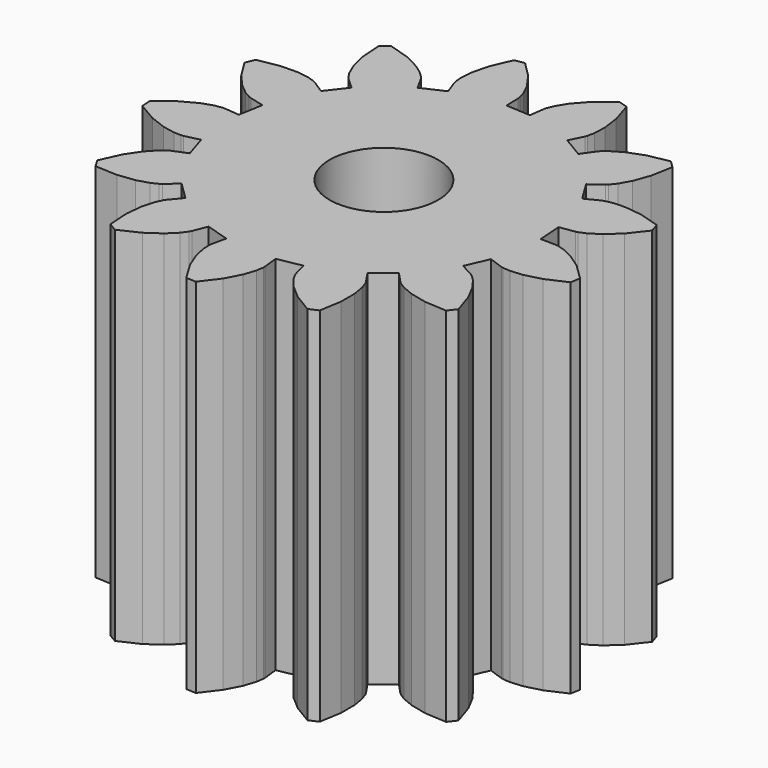
from build123d import *

# Parameters (mm, degrees)
CYLINDER006_R                 = 1.5
CYLINDER006_DEPTH             = 12
LINEAREXTRUDE004_DEPTH        = 10
DIFFERENCE005_PLACEMENT_ANGLE = -10


with BuildPart() as cylinder006:
    # cylinder006 → cylinder006 (new body)
    with BuildSketch(Plane.XY.offset(-1)):
        Circle(CYLINDER006_R)
    extrude(amount=CYLINDER006_DEPTH)


with BuildPart() as difference005:
    # union006 → LinearExtrude004 (new body)
    with BuildSketch(Plane(origin=(0, 0, 0), x_dir=(0, 1, 0), z_dir=(0, 0, 1))):
        Polygon((0.711931, -4.306123), (1.370771, -4.143733), (1.502069, -4.540636), (1.530367, -4.602072), (1.641751, -4.771632), (1.871155, -5.020002), (2.245545, -5.309618), (2.782207, -5.596589), (3.025427, -5.468937), (3.094113, -4.864255), (3.068442, -4.391617), (2.994354, -4.061731), (2.918082, -3.873743), (2.883597, -3.815555), (2.631538, -3.482032), (3.139447, -3.032064), (3.440155, -3.322487), (3.493763, -3.363735), (3.671187, -3.46211), (3.989737, -3.575421), (4.455834, -3.657875), (5.064387, -3.662577), (5.220426, -3.436516), (5.000234, -2.869177), (4.757857, -2.462607), (4.53895, -2.204938), (4.384052, -2.073928), (4.326475, -2.038431), (3.948292, -1.860249), (4.188912, -1.225786), (4.590143, -1.343197), (4.656779, -1.354807), (4.859597, -1.359461), (5.194318, -1.311756), (5.645345, -1.168159), (6.186377, -0.889514), (6.219486, -0.616832), (5.76086, -0.216806), (5.357304, 0.030555), (5.043726, 0.156979), (4.845688, 0.200998), (4.77821, 0.205671), (4.36054, 0.187693), (4.278749, 0.861305), (4.688584, 0.943805), (4.752983, 0.964491), (4.934732, 1.054624), (5.208943, 1.252418), (5.541575, 1.58917), (5.891142, 2.087328), (5.793738, 2.344162), (5.201743, 2.485233), (4.729457, 2.516719), (4.393046, 2.482935), (4.197235, 2.429879), (4.135314, 2.402658), (3.773841, 2.192639), (3.388376, 2.751081), (3.712928, 3.01459), (3.760337, 3.062835), (3.879381, 3.227107), (4.030263, 3.529677), (4.168298, 3.982437), (4.246318, 4.585986), (4.040715, 4.768136), (3.45097, 4.617935), (3.018149, 4.426332), (2.735972, 4.240079), (2.587247, 4.102103), (2.545069, 4.049224), (2.322601, 3.695276), (1.721767, 4.010618), (1.886685, 4.394771), (1.906243, 4.459522), (1.93531, 4.6603), (1.928298, 4.99833), (1.840114, 5.463378), (1.628715, 6.034052), (1.362012, 6.099788), (0.909622, 5.692724), (0.61542, 5.321926), (0.452121, 5.025874), (0.384552, 4.834585), (0.371779, 4.768162), (0.339281, 4.351371), (-0.339281, 4.351371), (-0.371779, 4.768162), (-0.384552, 4.834585), (-0.452121, 5.025874), (-0.61542, 5.321926), (-0.909622, 5.692724), (-1.362012, 6.099788), (-1.628715, 6.034052), (-1.840114, 5.463378), (-1.928298, 4.99833), (-1.93531, 4.6603), (-1.906243, 4.459522), (-1.886685, 4.394771), (-1.721767, 4.010618), (-2.322601, 3.695276), (-2.545069, 4.049224), (-2.587247, 4.102103), (-2.735972, 4.240079), (-3.018149, 4.426332), (-3.45097, 4.617935), (-4.040715, 4.768136), (-4.246318, 4.585986), (-4.168298, 3.982437), (-4.030263, 3.529677), (-3.879381, 3.227107), (-3.760337, 3.062835), (-3.712928, 3.01459), (-3.388376, 2.751081), (-3.773841, 2.192638), (-4.135314, 2.402658), (-4.197235, 2.429879), (-4.393046, 2.482935), (-4.729457, 2.516719), (-5.201743, 2.485233), (-5.793738, 2.344162), (-5.891142, 2.087328), (-5.541575, 1.58917), (-5.208943, 1.252418), (-4.934732, 1.054624), (-4.752983, 0.964491), (-4.688584, 0.943805), (-4.278749, 0.861305), (-4.36054, 0.187693), (-4.77821, 0.205671), (-4.845688, 0.200998), (-5.043726, 0.156979), (-5.357304, 0.030555), (-5.76086, -0.216806), (-6.219486, -0.616832), (-6.186377, -0.889514), (-5.645345, -1.168159), (-5.194318, -1.311756), (-4.859597, -1.359461), (-4.656779, -1.354807), (-4.590143, -1.343197), (-4.188912, -1.225786), (-3.948292, -1.860249), (-4.326475, -2.038431), (-4.384052, -2.073928), (-4.53895, -2.204938), (-4.757857, -2.462607), (-5.000234, -2.869177), (-5.220426, -3.436516), (-5.064387, -3.662577), (-4.455834, -3.657875), (-3.989737, -3.575421), (-3.671187, -3.46211), (-3.493763, -3.363735), (-3.440155, -3.322487), (-3.139447, -3.032064), (-2.631537, -3.482032), (-2.883597, -3.815555), (-2.918082, -3.873743), (-2.994354, -4.061731), (-3.068442, -4.391617), (-3.094113, -4.864255), (-3.025427, -5.468937), (-2.782207, -5.596589), (-2.245545, -5.309618), (-1.871155, -5.020002), (-1.641751, -4.771632), (-1.530367, -4.602072), (-1.502069, -4.540636), (-1.370771, -4.143733), (-0.71193, -4.306122), (-0.780122, -4.71858), (-0.783616, -4.78613), (-0.763789, -4.98803), (-0.676085, -5.31456), (-0.47917, -5.74499), (-0.137342, -6.24849), (0.137342, -6.24849), (0.47917, -5.74499), (0.676085, -5.31456), (0.763789, -4.98803), (0.783616, -4.78613), (0.780122, -4.71858), align=None)
    extrude(amount=LINEAREXTRUDE004_DEPTH)

    # difference005: cut cylinder006
    add(cylinder006.part, mode=Mode.SUBTRACT)


with BuildPart() as difference005_1:
    # difference005 placement: moved
    add(difference005.part.moved(Location((-5.5, 9.53, 0))).rotate(Axis((-5.5, 9.53, 0), (0, 0, 1)), DIFFERENCE005_PLACEMENT_ANGLE))


solid = difference005_1.part
